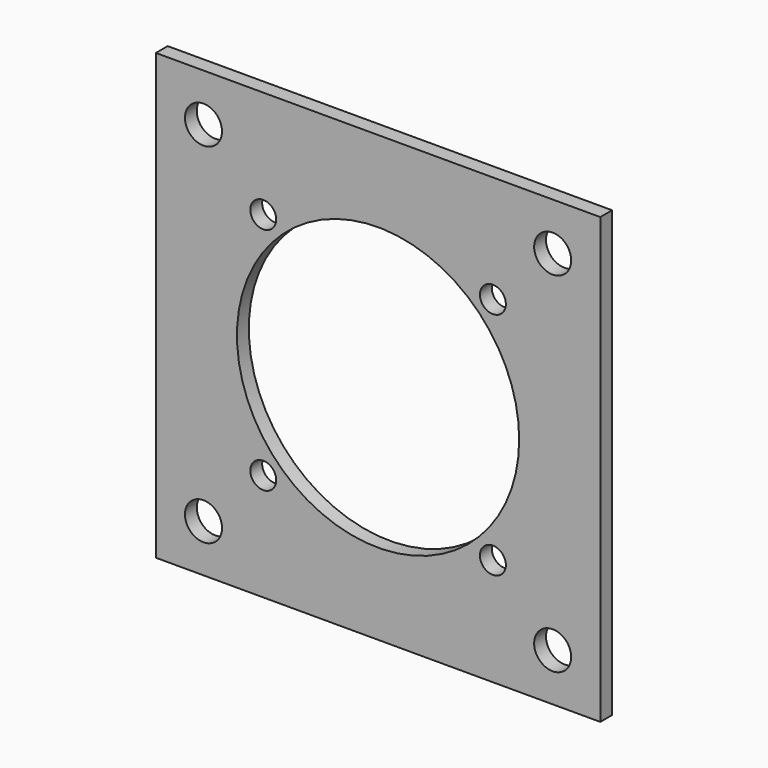
from build123d import *

# Parameters (mm, degrees)
F0_W     = 60
F0_H     = 60
F0_R     = 2.5
F0_R_2   = 1.75
F0_R_3   = 19.05
F1_DEPTH = 2


with BuildPart() as f1:
    # F0 (on Front) → F1 (new body)
    with BuildSketch(Plane.XZ):
        Rectangle(F0_W, F0_H)
        with Locations((-23.57, -23.57)):
            Circle(F0_R, mode=Mode.SUBTRACT)
        with Locations((-15.5, -15.5)):
            Circle(F0_R_2, mode=Mode.SUBTRACT)
        with Locations((23.57, -23.57)):
            Circle(F0_R, mode=Mode.SUBTRACT)
        with Locations((15.5, -15.5)):
            Circle(F0_R_2, mode=Mode.SUBTRACT)
        with Locations((-15.5, 15.5)):
            Circle(F0_R_2, mode=Mode.SUBTRACT)
        with Locations((-23.57, 23.57)):
            Circle(F0_R, mode=Mode.SUBTRACT)
        Circle(F0_R_3, mode=Mode.SUBTRACT)
        with Locations((15.5, 15.5)):
            Circle(F0_R_2, mode=Mode.SUBTRACT)
        with Locations((23.57, 23.57)):
            Circle(F0_R, mode=Mode.SUBTRACT)
    extrude(amount=F1_DEPTH)


solid = f1.part
